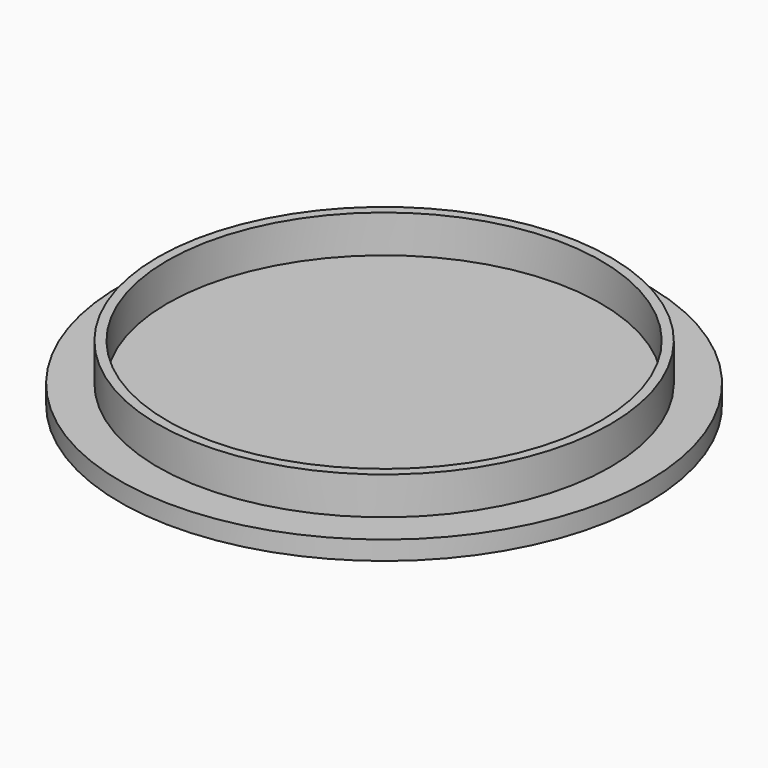
from build123d import *

# Parameters (mm, degrees)
F0_R     = 28
F0_R_2   = 24
F0_R_3   = 23
F1_DEPTH = 2
F2_DEPTH = 4


with BuildPart() as f1:
    # F0 (on Top) → F1 (new body)
    with BuildSketch(Plane.XY):
        Circle(F0_R)
        Circle(F0_R_2, mode=Mode.SUBTRACT)
        Circle(F0_R_2)
        Circle(F0_R_3, mode=Mode.SUBTRACT)
        Circle(F0_R_3)
    extrude(amount=-F1_DEPTH)

    # F0 (on Top) → F2 (join)
    with BuildSketch(Plane.XY):
        Circle(F0_R_2)
        Circle(F0_R_3, mode=Mode.SUBTRACT)
    extrude(amount=F2_DEPTH)


solid = f1.part
